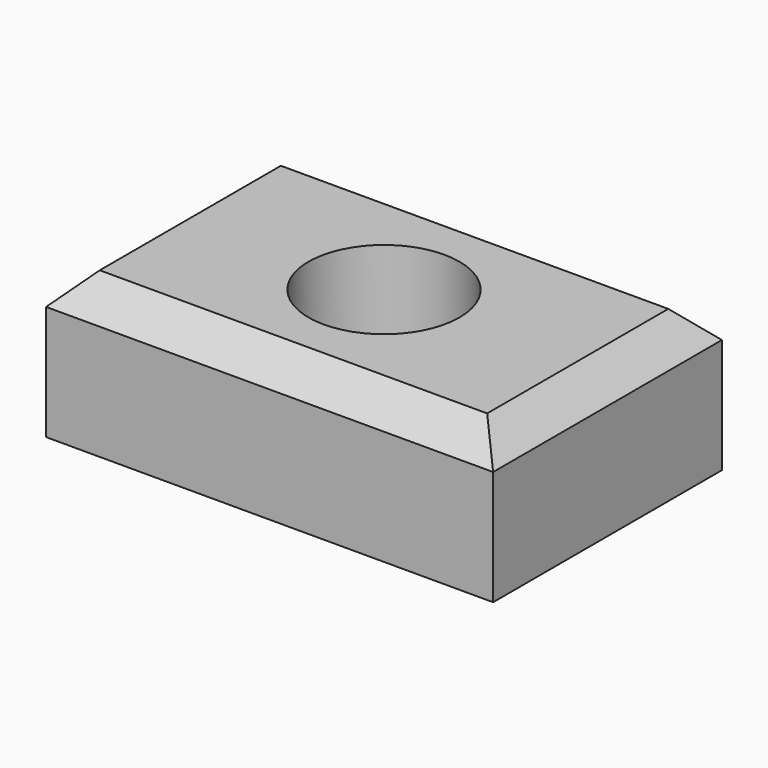
from build123d import *

# Parameters (mm, degrees)
F0_W     = 47.9789283127
F0_H     = 24.23273772
F1_DEPTH = 75
F2_SIZE  = 5
F3_R     = 12.6691800878
F4_DEPTH = 24.23273772


with BuildPart() as f1:
    # F0 (on Right) → F1 (new body)
    with BuildSketch(Plane.YZ):
        with Locations((-44.6873651817, 47.6334765553)):
            Rectangle(F0_W, F0_H)
    extrude(amount=F1_DEPTH)

    # F2
    f2_edges = [f1.edges().sort_by_distance(p)[0] for p in [
        (37.5, -68.676829, 59.749845),
        (37.5, -20.697901, 59.749845),
        (75, -44.687365, 59.749845),
        (0, -44.687365, 59.749845),
    ]]
    chamfer(f2_edges, length=F2_SIZE)

    # F3 (on face) → F4 (cut, through all)
    with BuildSketch(Plane.XY.offset(59.7498454154)):
        with Locations((37.5, -44.6873651817)):
            Circle(F3_R)
    extrude(amount=-F4_DEPTH, mode=Mode.SUBTRACT)


solid = f1.part
